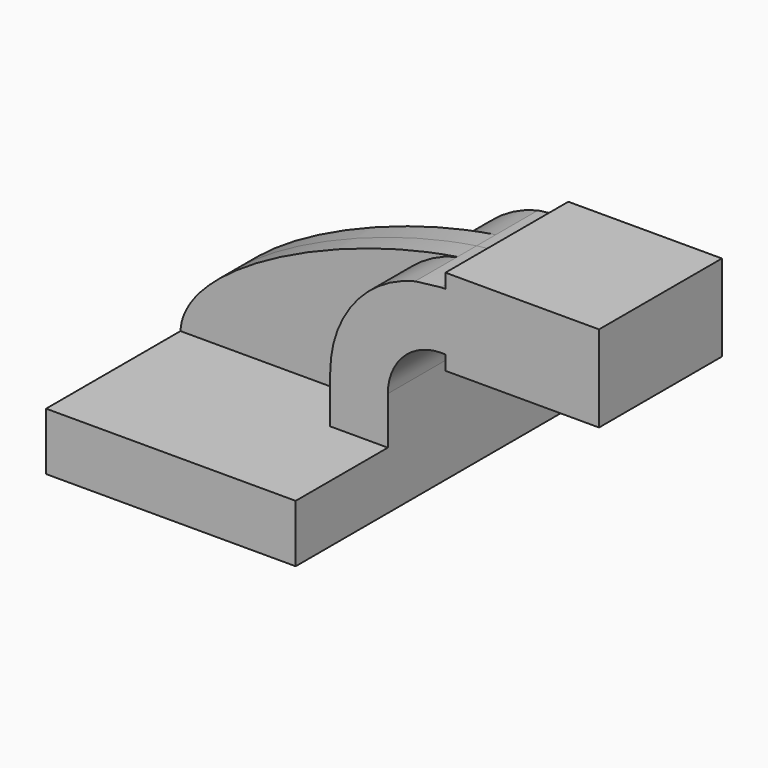
from build123d import *

# Parameters (mm, degrees)
F1_DEPTH = 63.5
F0_W     = 25.4
F0_H     = 19.05
F0_H_2   = 4.7752
F0_H_3   = 4.7498
F2_DEPTH = 25.4
F3_DEPTH = 7.9375


with BuildPart() as f1:
    # F0 (on Front) → F1 (new body, symmetric)
    with BuildSketch(Plane.XZ):
        Polygon((22.225, 9.525), (-41.275, 9.525), (-41.275, -9.525), (41.275, -9.525), (41.275, 9.525), align=None)
    extrude(amount=F1_DEPTH, both=True)

    # F0 (on Front) → F2 (join, symmetric)
    with BuildSketch(Plane.XZ):
        with BuildLine():
            Line((22.225, 25.2490305709), (22.225, 9.525))
            Line((22.225, 9.525), (41.275, 9.525))
            Line((41.275, 9.525), (41.275, 25.2490305709))
            ThreePointArc((41.275, 25.2490305709), (46.4375854994, 37.7126145006), (58.9011694291, 42.8752))
            Line((58.9011694291, 42.8752), (60.325, 42.8752))
            Line((60.325, 42.8752), (60.325, 61.9252))
            Line((60.325, 61.9252), (58.9011694291, 61.9252))
            add(Edge.make_bspline(
                [(50.3021553642, 60.9028993807), (53.2386856035, 61.3461922801), (56.1133148393, 61.6898187514), (58.9011694291, 61.9252)],
                knots=[105.260953705, 105.260953705, 105.260953705, 105.260953705, 113.0532877962, 113.0532877962, 113.0532877962, 113.0532877962], degree=3))
            ThreePointArc((50.3021553642, 60.9028993807), (30.0869342253, 47.9400255604), (22.225, 25.2490305709))
        make_face()
        with Locations((73.025, 52.4002)):
            Rectangle(F0_W, F0_H)
        with Locations((73.025, 40.4876)):
            Rectangle(F0_W, F0_H_2)
        with Locations((73.025, 64.3001)):
            Rectangle(F0_W, F0_H_3)
        Polygon((85.725, 66.675), (85.725, 61.9252), (85.725, 42.8752), (85.725, 38.1), (111.125, 38.1), (111.125, 66.675), align=None)
    extrude(amount=F2_DEPTH, both=True)

    # F0 (on Front) → F3 (join, symmetric)
    with BuildSketch(Plane.XZ):
        with BuildLine():
            add(Edge.make_bspline(
                [(-41.275, 9.525), (-40.3280161363, 30.740190757), (10.6347117007, 54.914779156), (50.3021553642, 60.9028993807)],
                knots=[0, 0, 0, 0, 105.260953705, 105.260953705, 105.260953705, 105.260953705], degree=3))
            Line((-41.275, 9.525), (22.225, 9.525))
            Line((22.225, 9.525), (22.225, 25.2490305709))
            ThreePointArc((22.225, 25.2490305709), (30.0869342253, 47.9400255604), (50.3021553642, 60.9028993807))
        make_face()
    extrude(amount=F3_DEPTH, both=True)


solid = f1.part
